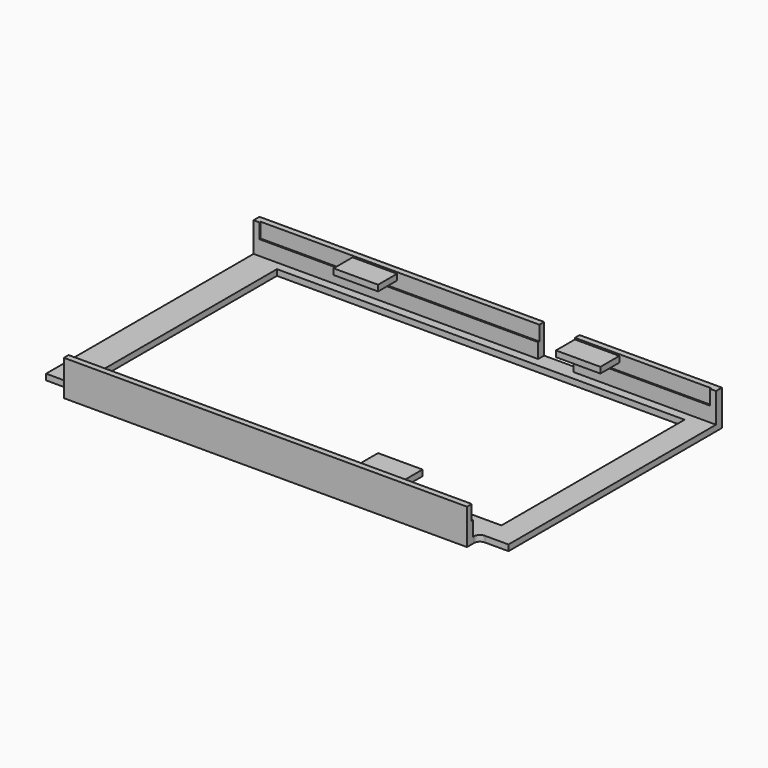
from build123d import *

# Parameters (mm, degrees)
SKETCH_W             = 156
SKETCH_H             = 95
PAD_DEPTH            = 15
SKETCH001_W          = 152
SKETCH001_H          = 91
POCKET_DEPTH         = 8
SKETCH002_W          = 156
SKETCH002_H          = 90
POCKET001_DEPTH      = 5
POCKET001_DEPTH_BACK = -9
SKETCH003_W          = 137.52
SKETCH003_H          = 77.232
POCKET002_DEPTH      = 5
SKETCH004_W          = 15
SKETCH004_H          = 2
PAD001_DEPTH         = 8
SKETCH005_W          = 15
SKETCH005_H          = 2
PAD002_DEPTH         = 8
POCKET003_DEPTH      = 3
POCKET004_DEPTH      = 13
SKETCH008_W          = 12
SKETCH008_H          = 10
POCKET005_DEPTH      = 5


with BuildPart() as part:
    # Sketch → Pad (new body)
    with BuildSketch(Plane.XY):
        Rectangle(SKETCH_W, SKETCH_H)
    extrude(amount=PAD_DEPTH)

    # Sketch001 (on Face6 of Pad) → Pocket (cut)
    with BuildSketch(Plane.XY.offset(15)):
        Rectangle(SKETCH001_W, SKETCH001_H)
    extrude(amount=-POCKET_DEPTH, mode=Mode.SUBTRACT)

    # Sketch002 (on Face11 of Pocket) → Pocket001 (cut, two sides)
    with BuildSketch(Plane.XY.offset(7)) as pocket001_sk:
        Rectangle(SKETCH002_W, SKETCH002_H)
    extrude(amount=-POCKET001_DEPTH, mode=Mode.SUBTRACT)
    extrude(pocket001_sk.sketch, amount=-POCKET001_DEPTH_BACK, mode=Mode.SUBTRACT)

    # Sketch003 (on Face7 of Pocket001) → Pocket002 (cut)
    with BuildSketch(Plane.XY.offset(2)):
        with Locations((1, 3.44)):
            Rectangle(SKETCH003_W, SKETCH003_H)
    extrude(amount=-POCKET002_DEPTH, mode=Mode.SUBTRACT)

    # Sketch004 (on Face16 of Pocket002) → Pad001 (join)
    with BuildSketch(Plane.XZ.offset(-45.5)):
        with Locations((-37.5, 10.5)):
            Rectangle(SKETCH004_W, SKETCH004_H)
        with Locations((37.5, 10.5)):
            Rectangle(SKETCH004_W, SKETCH004_H)
    extrude(amount=PAD001_DEPTH)

    # Sketch005 (on Face22 of Pad001) → Pad002 (join)
    with BuildSketch(Plane(origin=(0, -45.5, 0), x_dir=(-1, 0, 0), z_dir=(0, 1, 0))):
        with Locations((-37.5, 10.5)):
            Rectangle(SKETCH005_W, SKETCH005_H)
    extrude(amount=PAD002_DEPTH)

    # Sketch006 (on Face5 of Pad002) → Pocket003 (cut)
    with BuildSketch(Plane.XY.offset(15)):
        Polygon((-78, -45), (-78, -47.5), (78, -47.5), (78, -45), (76, -45), (76, -45.5), (-76, -45.5), (-76, -45), align=None)
        Polygon((-78, 47.5), (-78, 45), (-76, 45), (-76, 45.5), (76, 45.5), (76, 45), (78, 45), (78, 47.5), align=None)
    extrude(amount=-POCKET003_DEPTH, mode=Mode.SUBTRACT)

    # Sketch007 (on Face4 of Pocket003) → Pocket004 (cut)
    with BuildSketch(Plane.XY.offset(12)):
        with BuildLine():
            Line((-68, -47.5), (-78, -47.5))
            Line((-78, -47.5), (-78, -42.5))
            Line((-78, -42.5), (-70, -42.5))
            ThreePointArc((-68, -44.5), (-68.585786, -43.085786), (-70, -42.5))
            Line((-68, -47.5), (-68, -44.5))
        make_face()
        with BuildLine():
            Line((68, -47.5), (78, -47.5))
            Line((78, -47.5), (78, -42.5))
            Line((78, -42.5), (70, -42.5))
            ThreePointArc((70, -42.5), (68.585786, -43.085786), (68, -44.5))
            Line((68, -47.5), (68, -44.5))
        make_face()
    extrude(amount=-POCKET004_DEPTH, mode=Mode.SUBTRACT)

    # Sketch008 (on Face1 of Pocket004) → Pocket005 (cut)
    with BuildSketch(Plane(origin=(0, 47.5, 0), x_dir=(-1, 0, 0), z_dir=(0, 1, 0))):
        with Locations((-24, 7)):
            Rectangle(SKETCH008_W, SKETCH008_H)
    extrude(amount=-POCKET005_DEPTH, mode=Mode.SUBTRACT)


solid = part.part
